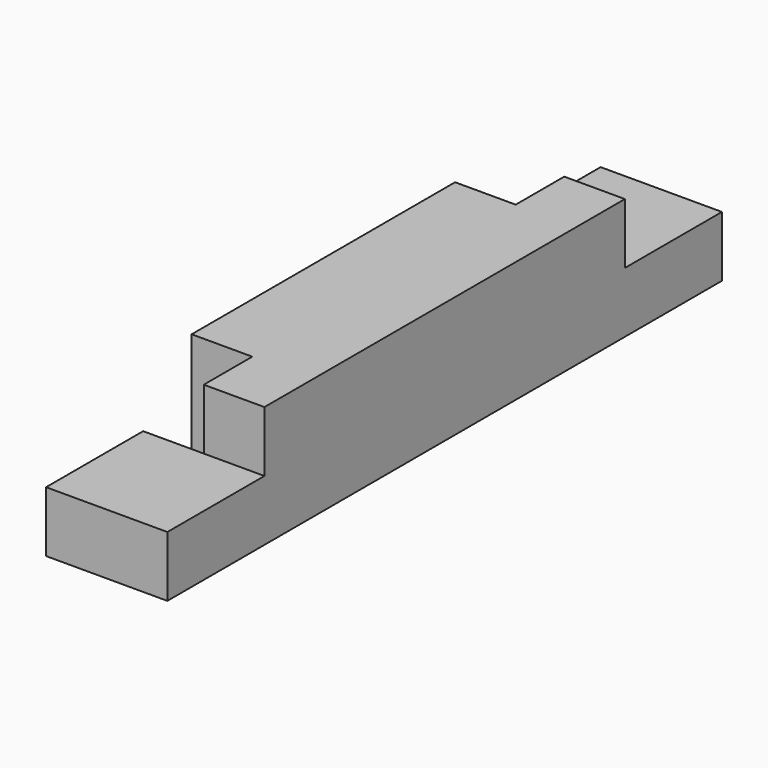
from build123d import *

# Parameters (mm, degrees)
F0_W     = 44.45
F0_H     = 44.45
F1_DEPTH = 254
F2_W     = 44.45
F2_H     = 44.45
F3_DEPTH = 22.225
F4_W     = 22.225
F4_H     = 44.45
F5_DEPTH = 22.225


with BuildPart() as f1:
    # F0 (on Front) → F1 (new body)
    with BuildSketch(Plane.XZ):
        with Locations((22.225, 22.225)):
            Rectangle(F0_W, F0_H)
    extrude(amount=F1_DEPTH)

    # F2 (on face) → F3 (cut)
    with BuildSketch(Plane.XY.offset(44.45)):
        with Locations((22.225, -231.775)):
            Rectangle(F2_W, F2_H)
        with Locations((22.225, -22.225)):
            Rectangle(F2_W, F2_H)
    extrude(amount=-F3_DEPTH, mode=Mode.SUBTRACT)

    # F4 (on face) → F5 (cut)
    with BuildSketch(Plane(origin=(0, 0, 0), x_dir=(0, -1, 0), z_dir=(-1, 0, 0))):
        with Locations((55.5625, 22.225)):
            Rectangle(F4_W, F4_H)
        with Locations((198.4375, 22.225)):
            Rectangle(F4_W, F4_H)
    extrude(amount=-F5_DEPTH, mode=Mode.SUBTRACT)


solid = f1.part
